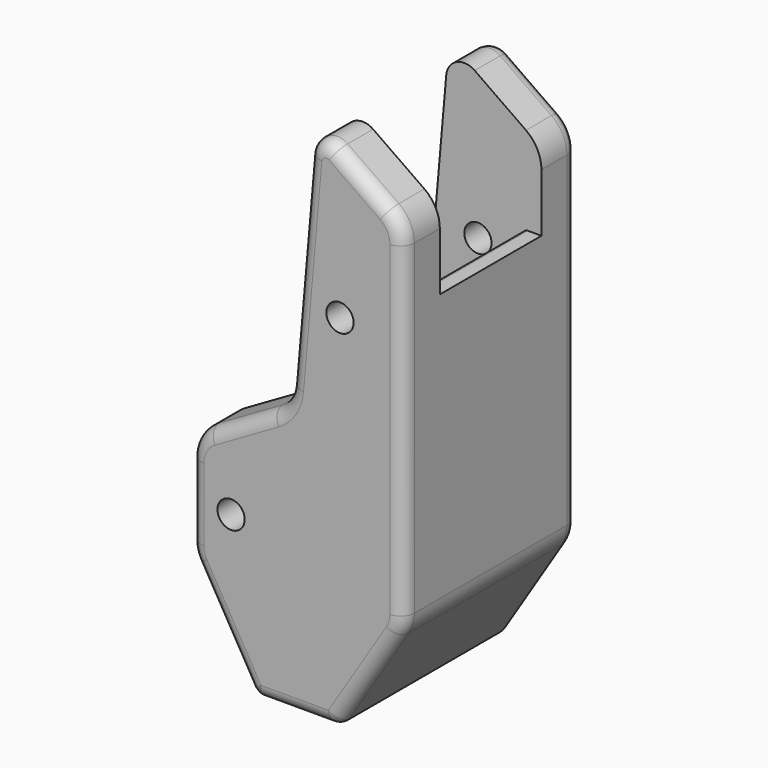
from build123d import *

# Parameters (mm, degrees)
SKETCH036_R              = 1.5
PAD021_DEPTH             = 24
FILLET007_R              = 1.5
POCKET013_DEPTH          = 14
FILLET008_R              = 0.5
CLONE169_PLACEMENT_ANGLE = 180


with BuildPart() as part:
    # Sketch036 → Pad021 (new body)
    with BuildSketch(Plane.XZ):
        with BuildLine():
            Line((-59.294306, 24.684125), (-53.647153, 28.638304))
            ThreePointArc((-50.507611, 27.174311), (-51.654763, 28.812616), (-53.647153, 28.638304))
            Line((-50.507611, 27.174311), (-48.491026, 4.124639))
            ThreePointArc((-48.491026, 4.124639), (-47.879813, 2.324063), (-46.506247, 1.00916))
            Line((-39.5, -3.035898), (-46.506247, 1.00916))
            ThreePointArc((-37.5, -6.5), (-38.035898, -4.5), (-39.5, -3.035898))
            Line((-37.5, -6.5), (-37.5, -14.5))
            ThreePointArc((-38.041032, -16.508866), (-37.637626, -15.540223), (-37.5, -14.5))
            Line((-38.041032, -16.508866), (-44.135258, -27.002216))
            ThreePointArc((-45, -27.5), (-44.501109, -27.366665), (-44.135258, -27.002216))
            Line((-45, -27.5), (-53, -27.5))
            ThreePointArc((-53.846615, -27.032205), (-53.483629, -27.375273), (-53, -27.5))
            Line((-53.846615, -27.032205), (-60.386462, -16.628821))
            ThreePointArc((-61, -14.5), (-60.843556, -15.607735), (-60.386462, -16.628821))
            Line((-61, -14.5), (-61, 21.407517))
            ThreePointArc((-59.294306, 24.684125), (-60.548043, 23.254511), (-61, 21.407517))
        make_face()
        with Locations((-54, 12.5)):
            Circle(SKETCH036_R, mode=Mode.SUBTRACT)
        with Locations((-42, -10.5)):
            Circle(SKETCH036_R, mode=Mode.SUBTRACT)
    extrude(amount=PAD021_DEPTH)

    # Fillet007
    fillet007_edges = [part.edges().sort_by_distance(p)[0] for p in [
        (-60.548043, 0, 23.254511),
        (-60.548043, -24, 23.254511),
    ]]
    fillet(fillet007_edges, radius=FILLET007_R)

    # Sketch037 (on Face12 of Fillet007) → Pocket013 (cut)
    with BuildSketch(Plane.XZ.offset(19)):
        with BuildLine():
            Line((-37.475618, -23.5), (-51.342359, -23.5))
            Line((-51.342359, -23.5), (-57, -14.5))
            Line((-57, -14.5), (-57, 8.5))
            ThreePointArc((-59, 12.5), (-58.472136, 10.263932), (-57, 8.5))
            Line((-59, 12.5), (-59, 15))
            Line((-59, 15), (-79, 15))
            Line((-79, 15), (-79, 35))
            Line((-79, 35), (-15.733307, 35))
            Line((-15.733307, 35), (-15.733307, -20.5))
            Line((-15.733307, -20.5), (-35.733307, -20.5))
            Line((-35.733307, -20.5), (-37.475618, -23.5))
        make_face()
    extrude(amount=-POCKET013_DEPTH, mode=Mode.SUBTRACT)

    # Fillet008
    fillet008_edges = [part.edges().sort_by_distance(p)[0] for p in [
        (-57, -12, 8.5),
        (-59, -12, 15),
        (-57, -12, -14.5),
        (-51.342359, -12, -23.5),
        (-42.101275, -12, -23.5),
    ]]
    fillet(fillet008_edges, radius=FILLET008_R)


with BuildPart() as part_1:
    # Body003 placement: moved
    add(part.part.moved(Location((0, 33, 0))))


with BuildPart() as part_2:
    # Clone169 placement: moved
    add(part_1.part.moved(Location((47, 47, 7.5))).rotate(Axis((47, 47, 7.5), (0, 0, 1)), CLONE169_PLACEMENT_ANGLE))


solid = part_2.part
